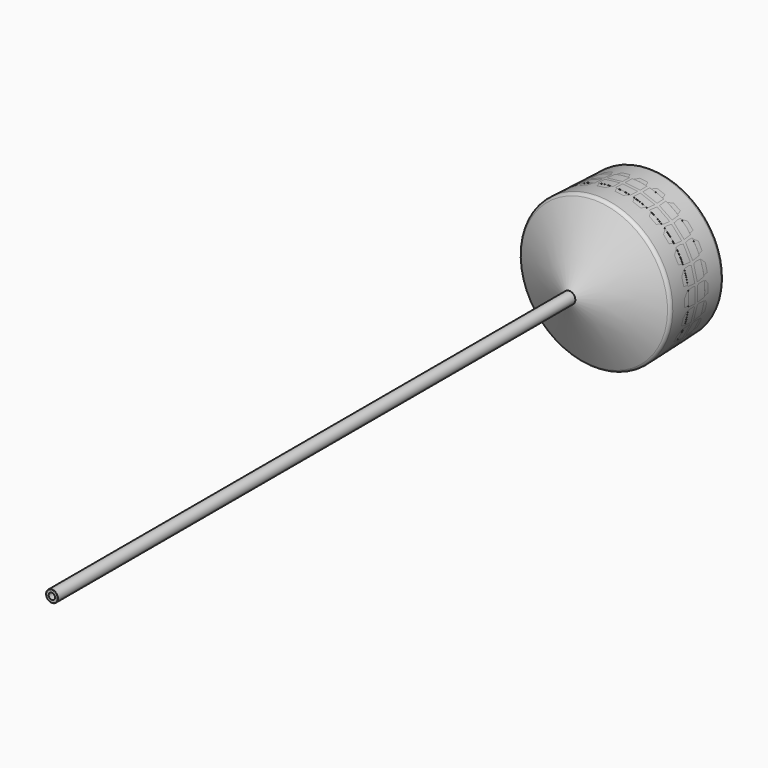
from build123d import *

# Parameters (mm, degrees)
F0_R      = 1.905
F0_R_2    = 1.016
F1_DEPTH  = 254
F2_SIZE   = 0.5588
F3_R      = 0.127
F4_R      = 0.127
F12_R     = 2.474941
F12_R_2   = 2.083201
F13_DEPTH = 11.02868


with BuildPart() as f1:
    # F0 (on Front) → F1 (new body)
    with BuildSketch(Plane.XZ):
        Circle(F0_R)
        Circle(F0_R_2, mode=Mode.SUBTRACT)
    extrude(amount=F1_DEPTH)

    # F2
    f2_edges = [f1.edges().sort_by_distance(p)[0] for p in [
        (-1.016, 0, 0),
    ]]
    chamfer(f2_edges, length=F2_SIZE)

    # F3
    f3_edges = [f1.edges().sort_by_distance(p)[0] for p in [
        (-1.905, 0, 0),
    ]]
    fillet(f3_edges, radius=F3_R)

    # F4
    f4_edges = [f1.edges().sort_by_distance(p)[0] for p in [
        (-1.905, -254, 0),
    ]]
    fillet(f4_edges, radius=F4_R)


with BuildPart() as f7:
    # F6 (on Right) → F7 (revolve)
    with BuildSketch(Plane.YZ):
        with BuildLine():
            Line((-38.287842, 23.267499), (-48.249339, 1.905))
            Line((-48.249339, 1.905), (-48.193287, 1.905))
            Line((-48.193287, 1.905), (-38.256012, 23.215556))
            ThreePointArc((-38.256012, 23.215556), (-37.768574, 23.761684), (-37.060678, 23.948057))
            Line((-37.060678, 23.948057), (-30.476542, 23.718134))
            ThreePointArc((-30.476542, 23.718134), (-30.466761, 23.719727), (-30.458333, 23.724943))
            Line((-30.458333, 23.724943), (-30.447451, 23.73509))
            ThreePointArc((-30.447451, 23.73509), (-30.439024, 23.740305), (-30.429242, 23.741898))
            Line((-30.429242, 23.741898), (-23.765976, 23.509212))
            ThreePointArc((-23.765976, 23.509212), (-23.756329, 23.50694), (-23.748286, 23.50115))
            Line((-23.748286, 23.50115), (-23.738138, 23.490268))
            ThreePointArc((-23.738138, 23.490268), (-23.730095, 23.484478), (-23.720448, 23.482206))
            Line((-23.720448, 23.482206), (-17.094282, 23.250816))
            ThreePointArc((-17.094282, 23.250816), (-16.459403, 23.047589), (-16.024265, 22.542587))
            Line((-16.024265, 22.542587), (-6.4008, 1.905))
            Line((-6.4008, 1.905), (-6.35, 1.905))
            Line((-6.35, 1.905), (-15.98582, 22.569083))
            ThreePointArc((-15.98582, 22.569083), (-16.435871, 23.091393), (-17.092509, 23.301585))
            Line((-17.092509, 23.301585), (-37.092509, 24))
            ThreePointArc((-37.092509, 24), (-37.800404, 23.813627), (-38.287842, 23.267499))
        make_face()
    revolve(axis=Axis((0, -159.145489, 0), (0, -1, 0)))


with BuildPart() as f13:
    # F12 (on offset) → F13 (new body, through all)
    with BuildSketch(Plane.XZ.offset(20.41652)):
        Circle(F12_R)
        Circle(F12_R_2, mode=Mode.SUBTRACT)
    extrude(amount=F13_DEPTH)


solid = Compound([f1.part, f7.part, f13.part])
